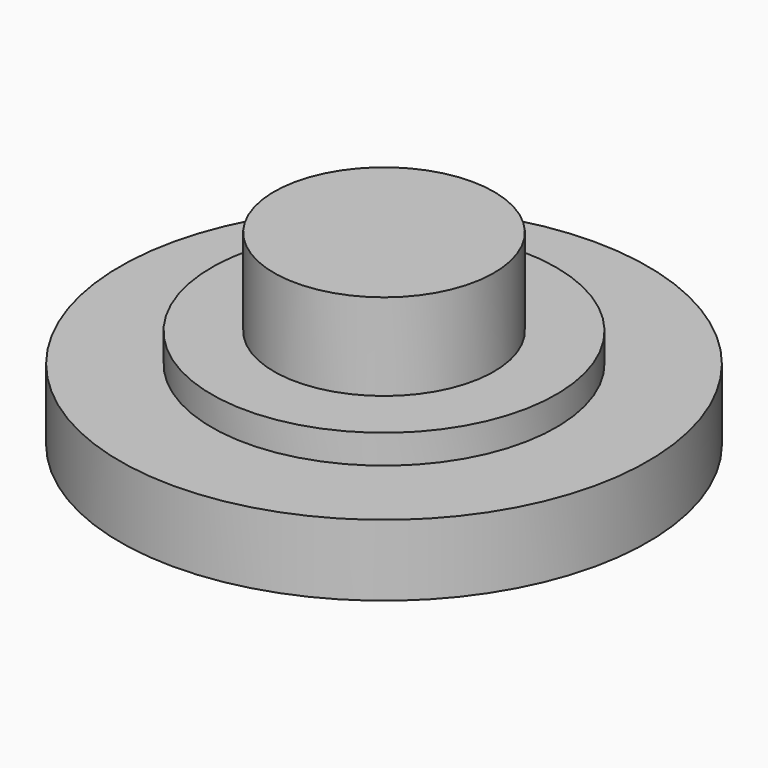
from build123d import *


with BuildPart() as f1:
    # F0 (on Right) → F1 (revolve)
    with BuildSketch(Plane.YZ):
        with BuildLine():
            ThreePointArc((0, 2), (3.939137, 1.499026), (7.616186, 0))
            Line((7.616186, 0), (9.116186, 0))
            Line((9.116186, 0), (9.116186, 2.46))
            Line((9.116186, 2.46), (5.95, 2.46))
            Line((5.95, 2.46), (5.95, 3.46))
            Line((5.95, 3.46), (3.8, 3.46))
            Line((3.8, 3.46), (3.8, 6.46))
            Line((3.8, 6.46), (0, 6.46))
            Line((0, 6.46), (0, 2))
        make_face()
    revolve(axis=Axis((0, 0, 3.23), (0, 0, -1)))


solid = f1.part
